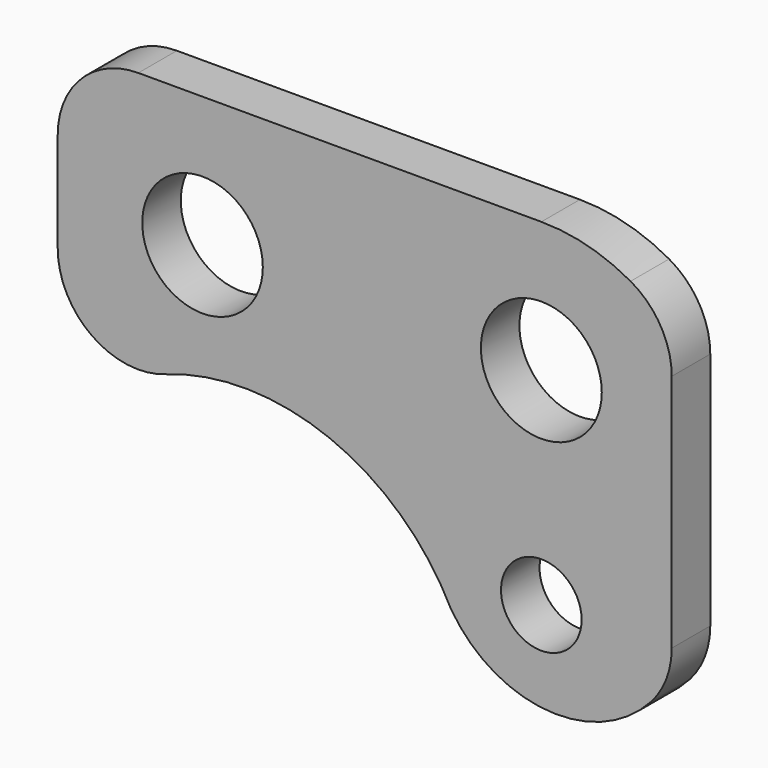
from build123d import *

# Parameters (mm, degrees)
F0_R     = 1.5875
F0_R_2   = 2.3749
F0_R_3   = 2.38125
F1_DEPTH = 1.89738


with BuildPart() as f1:
    # F0 (on Front) → F1 (new body)
    with BuildSketch(Plane.XZ):
        with BuildLine():
            ThreePointArc((3.515968, 12.368282), (1.81795, 13.053273), (0.001909, 13.286659))
            Line((0.001909, 13.286659), (-15.875, 13.286659))
            ThreePointArc((-15.875, 13.286659), (-18.120064, 12.356723), (-19.05, 10.111659))
            Line((-19.05, 10.111659), (-19.05, 6.175039))
            ThreePointArc((-19.05, 6.175039), (-17.702166, 3.578486), (-14.803016, 3.186482))
            ThreePointArc((-14.803016, 3.186482), (-8.330226, 3.072112), (-3.557411, -1.30171))
            ThreePointArc((-3.557411, -1.30171), (0.227554, -3.583606), (4.331067, -1.942206))
            ThreePointArc((4.331067, -1.942206), (4.929075, -0.959296), (5.137535, 0.172193))
            Line((5.137535, 0.172193), (5.137535, 9.599262))
            ThreePointArc((5.137535, 9.599262), (4.702314, 11.203705), (3.515968, 12.368282))
        make_face()
        Circle(F0_R, mode=Mode.SUBTRACT)
        with Locations((-13.345532, 8.142169)):
            Circle(F0_R_2, mode=Mode.SUBTRACT)
        with Locations((0, 8.142169)):
            Circle(F0_R_3, mode=Mode.SUBTRACT)
    extrude(amount=F1_DEPTH)


solid = f1.part
